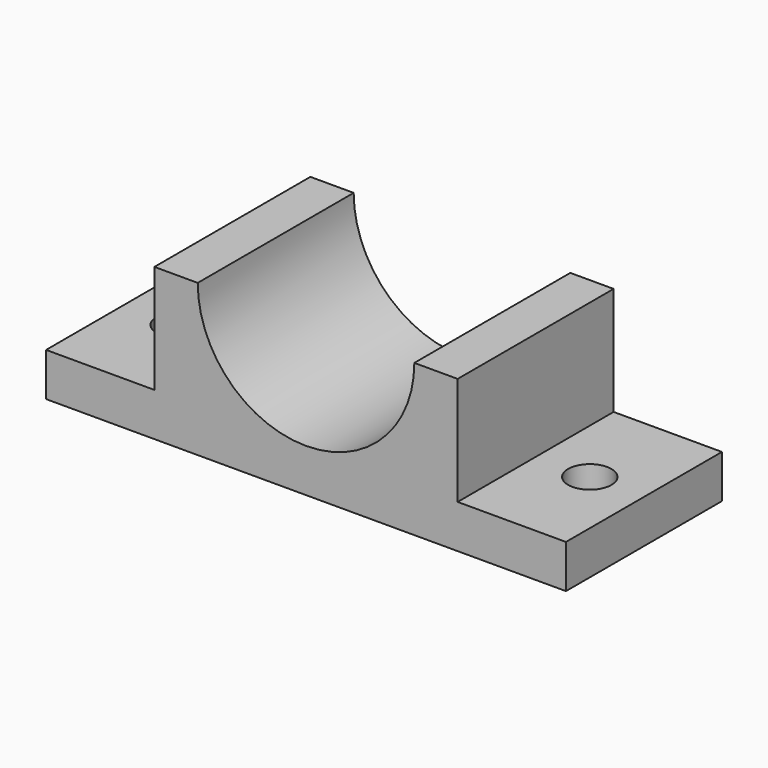
from build123d import *

# Parameters (mm, degrees)
F0_W     = 60
F0_H     = 22.5
F1_DEPTH = 5
F2_W     = 35
F2_H     = 22.5
F3_DEPTH = 12.5
F5_DEPTH = 22.501
F6_R     = 2.5
F8_DEPTH = 5.001
F7_R     = 2.5
F9_DEPTH = 5.001


with BuildPart() as f1:
    # F0 (on Top) → F1 (new body)
    with BuildSketch(Plane.XY):
        with Locations((20.5228848614, -5.6851599365)):
            Rectangle(F0_W, F0_H)
    extrude(amount=F1_DEPTH)

    # F2 (on face) → F3 (join)
    with BuildSketch(Plane.XY.offset(5)):
        with Locations((20.5228848614, -5.6851599365)):
            Rectangle(F2_W, F2_H)
    extrude(amount=F3_DEPTH)

    # F4 (on face) → F5 (cut, through all)
    with BuildSketch(Plane.XZ.offset(16.9351599365)):
        with BuildLine():
            ThreePointArc((8.0228848614, 17.5), (20.5228848614, 5), (33.0228848614, 17.5))
            Line((33.0228848614, 17.5), (8.0228848614, 17.5))
        make_face()
    extrude(amount=-F5_DEPTH, mode=Mode.SUBTRACT)

    # F6 (on face) → F8 (cut, through all)
    with BuildSketch(Plane.XY.offset(5)):
        with Locations((44.2728848614, -5.6851599365)):
            Circle(F6_R)
    extrude(amount=-F8_DEPTH, mode=Mode.SUBTRACT)

    # F7 (on face) → F9 (cut, through all)
    with BuildSketch(Plane.XY.offset(5)):
        with Locations((-3.2271151386, -5.6851599365)):
            Circle(F7_R)
    extrude(amount=-F9_DEPTH, mode=Mode.SUBTRACT)


solid = f1.part
